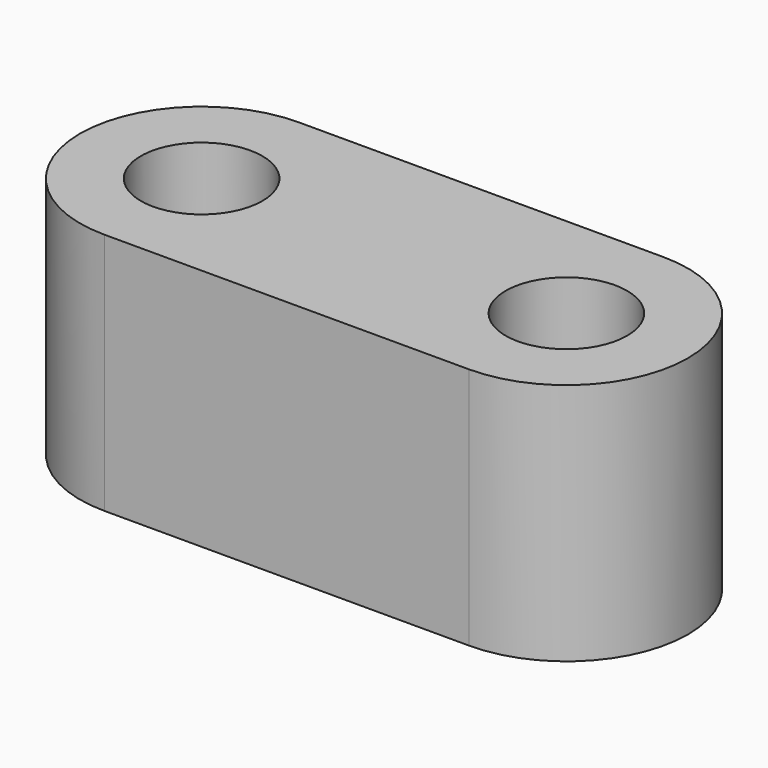
from build123d import *

# Parameters (mm, degrees)
F0_R     = 3
F1_DEPTH = 12
F2_R     = 3
F3_DEPTH = 6.9


with BuildPart() as f1:
    # F0 (on Top) → F1 (new body)
    with BuildSketch(Plane.XY):
        with BuildLine():
            Line((-40, 12), (-58, 12))
            ThreePointArc((-58, 12), (-62.242641, 10.242641), (-64, 6))
            ThreePointArc((-64, 6), (-62.242641, 1.757359), (-58, 0))
            Line((-58, 0), (-40, 0))
            ThreePointArc((-40, 0), (-34, 6), (-40, 12))
        make_face()
        with Locations((-40, 6)):
            Circle(F0_R, mode=Mode.SUBTRACT)
    extrude(amount=F1_DEPTH)

    # F2 (on face) → F3 (cut)
    with BuildSketch(Plane.XY.offset(12)):
        with Locations((-58, 6)):
            Circle(F2_R)
    extrude(amount=-F3_DEPTH, mode=Mode.SUBTRACT)


solid = f1.part
